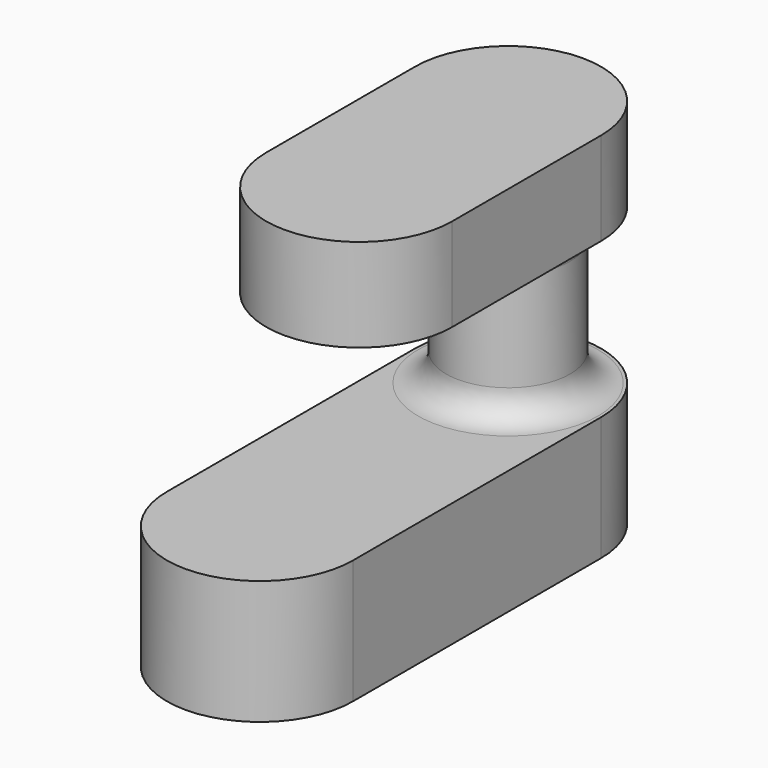
from build123d import *

# Parameters (mm, degrees)
PAD004_DEPTH = 4
SKETCH005_R  = 2
PAD005_DEPTH = 5
PAD006_DEPTH = 3
FILLET003_R  = 0.9
FILLET004_R  = 0.9


with BuildPart() as part:
    # Sketch004 → Pad004 (new body)
    with BuildSketch(Plane.XY):
        with BuildLine():
            ThreePointArc((3, -6), (0, -3), (-3, -6))
            Line((-3, -6), (-3, -16))
            ThreePointArc((-3, -16), (0, -19), (3, -16))
            Line((3, -6), (3, -16))
        make_face()
    extrude(amount=-PAD004_DEPTH)

    # Sketch005 → Pad005 (new body)
    with BuildSketch(Plane.XY):
        with Locations((0, -6)):
            Circle(SKETCH005_R)
    extrude(amount=PAD005_DEPTH)

    # Sketch006 → Pad006 (new body)
    with BuildSketch(Plane.XY.offset(5)):
        with BuildLine():
            ThreePointArc((3, -6), (0, -3), (-3, -6))
            Line((-3, -6), (-3, -12))
            ThreePointArc((-3, -12), (0, -15), (3, -12))
            Line((3, -6), (3, -12))
        make_face()
    extrude(amount=PAD006_DEPTH)

    # Fillet003
    fillet003_edges = [part.edges().sort_by_distance(p)[0] for p in [
        (-2, -6, 5),
    ]]
    fillet(fillet003_edges, radius=FILLET003_R)

    # Fillet004
    fillet004_edges = [part.edges().sort_by_distance(p)[0] for p in [
        (-2, -6, 0),
    ]]
    fillet(fillet004_edges, radius=FILLET004_R)


solid = part.part
